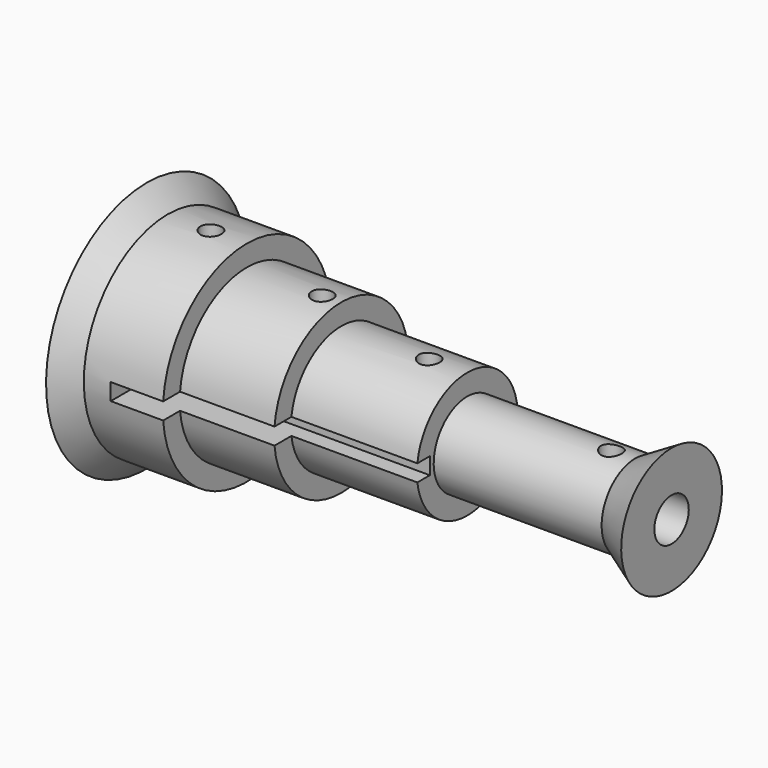
from build123d import *

# Parameters (mm, degrees)
F2_R     = 0.5
F3_DEPTH = 12.5
F4_W     = 2.789457
F4_H     = 0.8
F5_DEPTH = 13


with BuildPart() as f1:
    # F0 (on Front) → F1 (revolve)
    with BuildSketch(Plane.XZ):
        Polygon((1, 5), (0, 6), (0, 1.025), (25, 1.025), (25, 3), (23.267949, 2), (15.267949, 2), (15.267949, 3), (9.267949, 3), (9.267949, 4), (4.767949, 4), (4.767949, 5), align=None)
    revolve(axis=Axis((6.044726, 0, 0), (1, 0, 0)))

    # F2 (on Top) → F3 (cut, symmetric)
    with BuildSketch(Plane.XY):
        with Locations((3.057949, 0)):
            Circle(F2_R)
        with Locations((8.358715, 0)):
            Circle(F2_R)
        with Locations((13.456892, 0)):
            Circle(F2_R)
        with Locations((22.136655, 0)):
            Circle(F2_R)
    extrude(amount=F3_DEPTH, both=True, mode=Mode.SUBTRACT)

    # F4 (on face) → F5 (cut)
    with BuildSketch(Plane.YZ.offset(15.267949)):
        with Locations((-3.624397, 0)):
            Rectangle(F4_W, F4_H)
    extrude(amount=-F5_DEPTH, mode=Mode.SUBTRACT)


solid = f1.part
